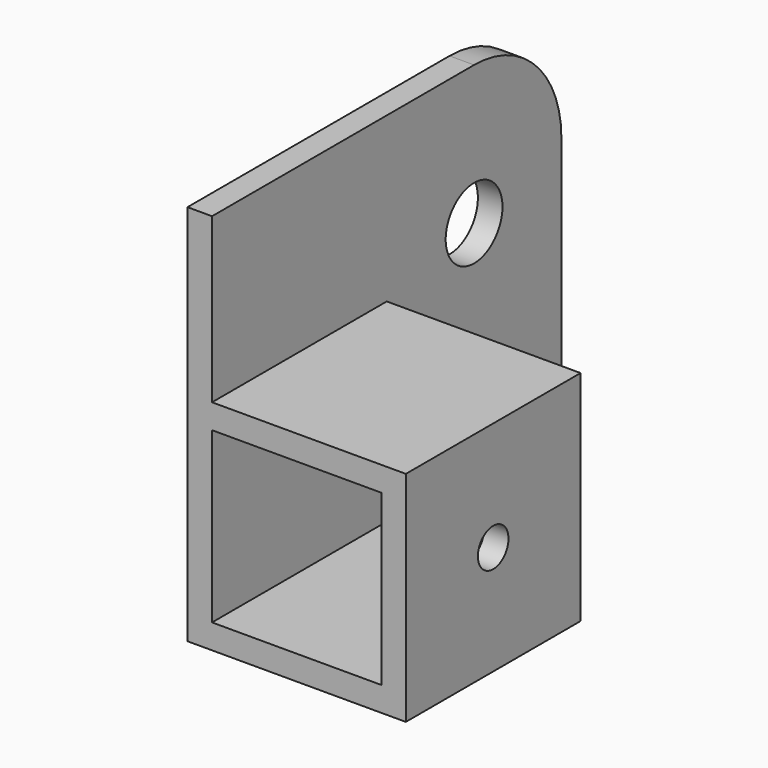
from build123d import *

# Parameters (mm, degrees)
F0_W          = 20
F0_H          = 20
F1_DEPTH      = 20
F2_W          = 15.5
F2_H          = 15.5
F3_DEPTH      = 25
F3_DEPTH_BACK = 25
F4_W          = 2.25
F4_H          = 20
F5_DEPTH      = 15
F6_W          = 2.25
F6_H          = 35
F7_DEPTH      = 20
F8_R          = 3.25
F9_DEPTH      = 25
F9_DEPTH_BACK = 25
F10_R         = 1.75
F11_DEPTH     = 5
F12_R         = 10


with BuildPart() as f1:
    # F0 (on Top) → F1 (new body)
    with BuildSketch(Plane.XY):
        with Locations((10, 10)):
            Rectangle(F0_W, F0_H)
    extrude(amount=F1_DEPTH)

    # F2 (on face) → F3 (cut, two sides)
    with BuildSketch(Plane.XZ) as f3_sk:
        with Locations((10, 10)):
            Rectangle(F2_W, F2_H)
    extrude(amount=F3_DEPTH, mode=Mode.SUBTRACT)
    extrude(f3_sk.sketch, amount=-F3_DEPTH_BACK, mode=Mode.SUBTRACT)

    # F4 (on face) → F5 (join)
    with BuildSketch(Plane.XY.offset(20)):
        with Locations((1.125, 10)):
            Rectangle(F4_W, F4_H)
    extrude(amount=F5_DEPTH)

    # F6 (on face) → F7 (join)
    with BuildSketch(Plane(origin=(0, 20, 0), x_dir=(-1, 0, 0), z_dir=(0, 1, 0))):
        with Locations((-1.125, 17.5)):
            Rectangle(F6_W, F6_H)
    extrude(amount=F7_DEPTH)

    # F8 (on face) → F9 (cut, two sides)
    with BuildSketch(Plane.YZ.offset(2.25)) as f9_sk:
        with Locations((30, 22.25)):
            Circle(F8_R)
    extrude(amount=-F9_DEPTH, mode=Mode.SUBTRACT)
    extrude(f9_sk.sketch, amount=-F9_DEPTH_BACK, mode=Mode.SUBTRACT)

    # F10 (on face) → F11 (cut)
    with BuildSketch(Plane.YZ.offset(20)):
        with Locations((10, 10)):
            Circle(F10_R)
    extrude(amount=-F11_DEPTH, mode=Mode.SUBTRACT)

    # F12
    f12_edges = [f1.edges().sort_by_distance(p)[0] for p in [
        (1.125, 40, 35),
    ]]
    fillet(f12_edges, radius=F12_R)


solid = f1.part
